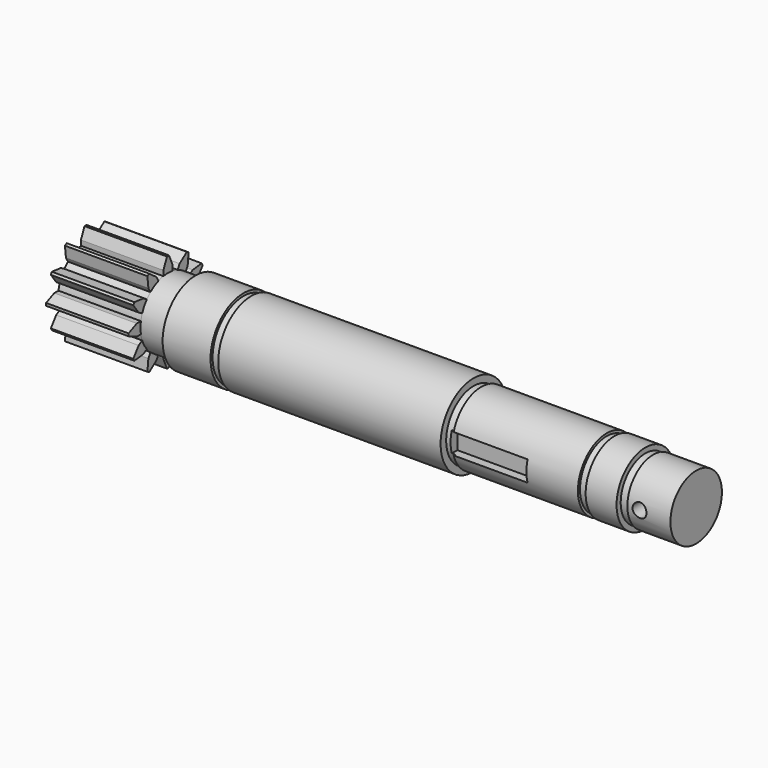
from build123d import *

# Parameters (mm, degrees)
F3_DEPTH = 32
F7_W     = 30
F7_H     = 8
F8_DEPTH = 4
F5_R     = 2.7
F9_DEPTH = 25


with BuildPart() as f1:
    # F0 (on Front) → F1 (revolve)
    with BuildSketch(Plane.XZ):
        Polygon((29.3, 16), (10.7, 16), (10.7, 13.35), (0, 13.35), (0, 0), (205, 0), (205, 12.5), (188.3, 12.5), (188.3, 12), (185.3, 12), (185.3, 14), (173.3, 14), (173.3, 13), (170.3, 13), (170.3, 14), (121.6, 14), (121.6, 13.3), (118.6, 13.3), (118.6, 16), (32.3, 16), (32.3, 15), (29.3, 15), align=None)
    revolve(axis=Axis((102.5, 0, 0), (-1, 0, 0)))

    # F2 (on face) → F3 (join)
    with BuildSketch(Plane(origin=(0, 0, 0), x_dir=(0, -1, 0), z_dir=(-1, 0, 0))):
        with BuildLine():
            ThreePointArc((-8.528071, 10.271052), (-6.675, 11.561439), (-4.630957, 12.521052))
            Line((-4.630957, 12.521052), (-5.630957, 14.253103))
            Line((-5.630957, 14.253103), (-9.146501, 16.842204))
            Line((-9.146501, 16.842204), (-10.012526, 16.342204))
            Line((-10.012526, 16.342204), (-9.528071, 12.003103))
            Line((-9.528071, 12.003103), (-8.528071, 10.271052))
        make_face()
        with BuildLine():
            Line((-2.25, 15.159027), (-2.25, 13.159027))
            ThreePointArc((-2.25, 13.159027), (0, 13.35), (2.25, 13.159027))
            Line((2.25, 13.159027), (2.25, 15.159027))
            Line((2.25, 15.159027), (0.5, 19.159027))
            Line((0.5, 19.159027), (-0.5, 19.159027))
            Line((-0.5, 19.159027), (-2.25, 15.159027))
        make_face()
        with BuildLine():
            Line((5.630957, 14.253103), (4.630957, 12.521052))
            ThreePointArc((4.630957, 12.521052), (6.675, 11.561439), (8.528071, 10.271052))
            Line((8.528071, 10.271052), (9.528071, 12.003103))
            Line((9.528071, 12.003103), (10.012526, 16.342204))
            Line((10.012526, 16.342204), (9.146501, 16.842204))
            Line((9.146501, 16.842204), (5.630957, 14.253103))
        make_face()
        with BuildLine():
            Line((12.003103, 9.528071), (10.271052, 8.528071))
            ThreePointArc((10.271052, 8.528071), (11.561439, 6.675), (12.521052, 4.630957))
            Line((12.521052, 4.630957), (14.253103, 5.630957))
            Line((14.253103, 5.630957), (16.842204, 9.146501))
            Line((16.842204, 9.146501), (16.342204, 10.012526))
            Line((16.342204, 10.012526), (12.003103, 9.528071))
        make_face()
        with BuildLine():
            Line((15.159027, 2.25), (13.159027, 2.25))
            ThreePointArc((13.159027, 2.25), (13.302171, 1.129045), (13.35, 0))
            ThreePointArc((13.35, 0), (13.302171, -1.129045), (13.159027, -2.25))
            Line((13.159027, -2.25), (15.159027, -2.25))
            Line((15.159027, -2.25), (19.159027, -0.5))
            Line((19.159027, -0.5), (19.159027, 0.5))
            Line((19.159027, 0.5), (15.159027, 2.25))
        make_face()
        with BuildLine():
            Line((14.253103, -5.630957), (12.521052, -4.630957))
            ThreePointArc((12.521052, -4.630957), (11.561439, -6.675), (10.271052, -8.528071))
            Line((10.271052, -8.528071), (12.003103, -9.528071))
            Line((12.003103, -9.528071), (16.342204, -10.012526))
            Line((16.342204, -10.012526), (16.842204, -9.146501))
            Line((16.842204, -9.146501), (14.253103, -5.630957))
        make_face()
        with BuildLine():
            Line((9.528071, -12.003103), (8.528071, -10.271052))
            ThreePointArc((8.528071, -10.271052), (6.675, -11.561439), (4.630957, -12.521052))
            Line((4.630957, -12.521052), (5.630957, -14.253103))
            Line((5.630957, -14.253103), (9.146501, -16.842204))
            Line((9.146501, -16.842204), (10.012526, -16.342204))
            Line((10.012526, -16.342204), (9.528071, -12.003103))
        make_face()
        with BuildLine():
            ThreePointArc((2.25, -13.159027), (0, -13.35), (-2.25, -13.159027))
            Line((-2.25, -13.159027), (-2.25, -15.159027))
            Line((-2.25, -15.159027), (-0.5, -19.159027))
            Line((-0.5, -19.159027), (0.5, -19.159027))
            Line((0.5, -19.159027), (2.25, -15.159027))
            Line((2.25, -15.159027), (2.25, -13.159027))
        make_face()
        with BuildLine():
            ThreePointArc((-4.630957, -12.521052), (-6.675, -11.561439), (-8.528071, -10.271052))
            Line((-8.528071, -10.271052), (-9.528071, -12.003103))
            Line((-9.528071, -12.003103), (-10.012526, -16.342204))
            Line((-10.012526, -16.342204), (-9.146501, -16.842204))
            Line((-9.146501, -16.842204), (-5.630957, -14.253103))
            Line((-5.630957, -14.253103), (-4.630957, -12.521052))
        make_face()
        with BuildLine():
            ThreePointArc((-10.271052, -8.528071), (-11.561439, -6.675), (-12.521052, -4.630957))
            Line((-12.521052, -4.630957), (-14.253103, -5.630957))
            Line((-14.253103, -5.630957), (-16.842204, -9.146501))
            Line((-16.842204, -9.146501), (-16.342204, -10.012526))
            Line((-16.342204, -10.012526), (-12.003103, -9.528071))
            Line((-12.003103, -9.528071), (-10.271052, -8.528071))
        make_face()
        with BuildLine():
            ThreePointArc((-13.159027, -2.25), (-13.35, 0), (-13.159027, 2.25))
            Line((-13.159027, 2.25), (-15.159027, 2.25))
            Line((-15.159027, 2.25), (-19.159027, 0.5))
            Line((-19.159027, 0.5), (-19.159027, -0.5))
            Line((-19.159027, -0.5), (-15.159027, -2.25))
            Line((-15.159027, -2.25), (-13.159027, -2.25))
        make_face()
        with BuildLine():
            ThreePointArc((-12.521052, 4.630957), (-11.561439, 6.675), (-10.271052, 8.528071))
            Line((-10.271052, 8.528071), (-12.003103, 9.528071))
            Line((-12.003103, 9.528071), (-16.342204, 10.012526))
            Line((-16.342204, 10.012526), (-16.842204, 9.146501))
            Line((-16.842204, 9.146501), (-14.253103, 5.630957))
            Line((-14.253103, 5.630957), (-12.521052, 4.630957))
        make_face()
        with BuildLine():
            ThreePointArc((2.25, 13.159027), (0, 13.35), (-2.25, 13.159027))
            ThreePointArc((-2.25, 13.159027), (-3.455234, 12.89511), (-4.630957, 12.521052))
            ThreePointArc((-4.630957, 12.521052), (-6.675, 11.561439), (-8.528071, 10.271052))
            ThreePointArc((-8.528071, 10.271052), (-9.439876, 9.439876), (-10.271052, 8.528071))
            ThreePointArc((-10.271052, 8.528071), (-11.561439, 6.675), (-12.521052, 4.630957))
            ThreePointArc((-12.521052, 4.630957), (-12.89511, 3.455234), (-13.159027, 2.25))
            ThreePointArc((-13.159027, 2.25), (-13.35, 0), (-13.159027, -2.25))
            ThreePointArc((-13.159027, -2.25), (-12.89511, -3.455234), (-12.521052, -4.630957))
            ThreePointArc((-12.521052, -4.630957), (-11.561439, -6.675), (-10.271052, -8.528071))
            ThreePointArc((-10.271052, -8.528071), (-9.439876, -9.439876), (-8.528071, -10.271052))
            ThreePointArc((-8.528071, -10.271052), (-6.675, -11.561439), (-4.630957, -12.521052))
            ThreePointArc((-4.630957, -12.521052), (-3.455234, -12.89511), (-2.25, -13.159027))
            ThreePointArc((-2.25, -13.159027), (0, -13.35), (2.25, -13.159027))
            ThreePointArc((2.25, -13.159027), (3.455234, -12.89511), (4.630957, -12.521052))
            ThreePointArc((4.630957, -12.521052), (6.675, -11.561439), (8.528071, -10.271052))
            ThreePointArc((8.528071, -10.271052), (9.439876, -9.439876), (10.271052, -8.528071))
            ThreePointArc((10.271052, -8.528071), (11.561439, -6.675), (12.521052, -4.630957))
            ThreePointArc((12.521052, -4.630957), (12.89511, -3.455234), (13.159027, -2.25))
            ThreePointArc((13.159027, -2.25), (13.302171, -1.129045), (13.35, 0))
            ThreePointArc((13.35, 0), (13.302171, 1.129045), (13.159027, 2.25))
            ThreePointArc((13.159027, 2.25), (12.89511, 3.455234), (12.521052, 4.630957))
            ThreePointArc((12.521052, 4.630957), (11.561439, 6.675), (10.271052, 8.528071))
            ThreePointArc((10.271052, 8.528071), (9.439876, 9.439876), (8.528071, 10.271052))
            ThreePointArc((8.528071, 10.271052), (6.675, 11.561439), (4.630957, 12.521052))
            ThreePointArc((4.630957, 12.521052), (3.455234, 12.89511), (2.25, 13.159027))
        make_face()
    extrude(amount=F3_DEPTH)

    # F7 (on offset) → F8 (cut)
    with BuildSketch(Plane.XZ.offset(14)):
        with Locations((135.3, 0)):
            Rectangle(F7_W, F7_H)
    extrude(amount=-F8_DEPTH, mode=Mode.SUBTRACT)

    # F5 (on offset) → F9 (cut)
    with BuildSketch(Plane.XZ.offset(12.5)):
        with Locations((193, 0)):
            Circle(F5_R)
    extrude(amount=-F9_DEPTH, mode=Mode.SUBTRACT)


solid = f1.part
